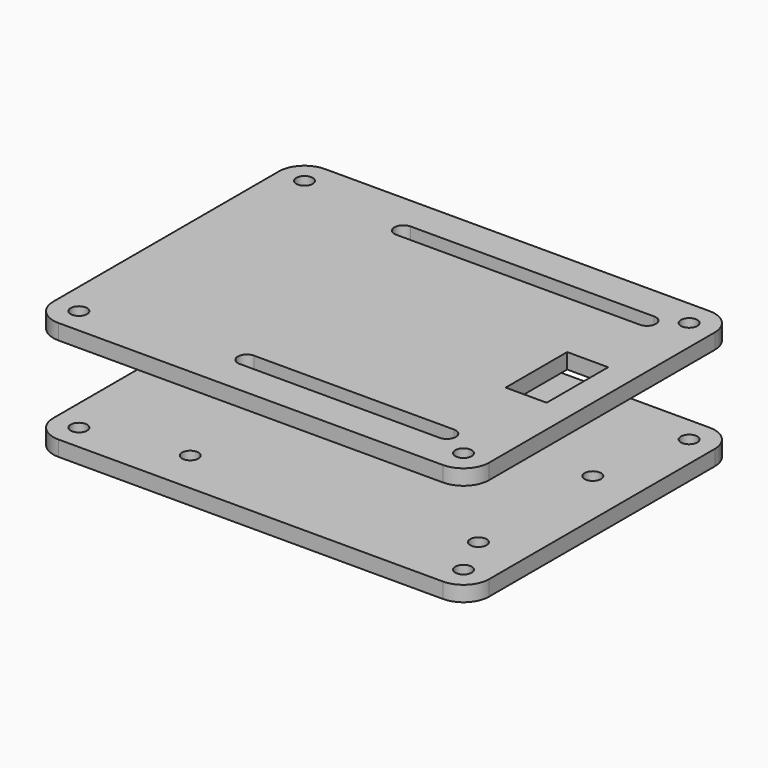
from build123d import *

# Parameters (mm, degrees)
SKETCH_R     = 1.6
PAD_DEPTH    = 3
SKETCH001_R  = 1.6
SKETCH001_W  = 8
SKETCH001_H  = 15
PAD001_DEPTH = 3


with BuildPart() as bottom:
    # Sketch → Pad (new body)
    with BuildSketch(Plane.XY):
        with BuildLine():
            Line((15, 75), (90, 75))
            ThreePointArc((95, 70), (93.535534, 73.535534), (90, 75))
            Line((95, 70), (95, 15))
            ThreePointArc((90, 10), (93.535534, 11.464466), (95, 15))
            Line((90, 10), (15, 10))
            ThreePointArc((10, 15), (11.464466, 11.464466), (15, 10))
            Line((10, 15), (10, 70))
            ThreePointArc((15, 75), (11.464466, 73.535534), (10, 70))
        make_face()
        with Locations((15, 70)):
            Circle(SKETCH_R, mode=Mode.SUBTRACT)
        with Locations((90, 70)):
            Circle(SKETCH_R, mode=Mode.SUBTRACT)
        with Locations((15, 15)):
            Circle(SKETCH_R, mode=Mode.SUBTRACT)
        with Locations((90, 15)):
            Circle(SKETCH_R, mode=Mode.SUBTRACT)
        with Locations((35.3, 66.6)):
            Circle(SKETCH_R, mode=Mode.SUBTRACT)
        with Locations((34, 18.4)):
            Circle(SKETCH_R, mode=Mode.SUBTRACT)
        with Locations((86.1, 23.5)):
            Circle(SKETCH_R, mode=Mode.SUBTRACT)
        with Locations((86.1, 51.4)):
            Circle(SKETCH_R, mode=Mode.SUBTRACT)
    extrude(amount=PAD_DEPTH)


with BuildPart() as top:
    # Sketch001 → Pad001 (new body)
    with BuildSketch(Plane.XY.offset(20)):
        with BuildLine():
            Line((15, 75), (90, 75))
            ThreePointArc((95, 70), (93.535534, 73.535534), (90, 75))
            Line((95, 70), (95, 15))
            ThreePointArc((90, 10), (93.535534, 11.464466), (95, 15))
            Line((90, 10), (15, 10))
            ThreePointArc((10, 15), (11.464466, 11.464466), (15, 10))
            Line((10, 15), (10, 70))
            ThreePointArc((15, 75), (11.464466, 73.535534), (10, 70))
        make_face()
        with Locations((15, 70)):
            Circle(SKETCH001_R, mode=Mode.SUBTRACT)
        with Locations((90, 70)):
            Circle(SKETCH001_R, mode=Mode.SUBTRACT)
        with Locations((15, 15)):
            Circle(SKETCH001_R, mode=Mode.SUBTRACT)
        with Locations((90, 15)):
            Circle(SKETCH001_R, mode=Mode.SUBTRACT)
        with BuildLine():
            Line((45, 20.190004), (84, 20.190004))
            ThreePointArc((84, 16.690004), (85.75, 18.440004), (84, 20.190004))
            Line((45, 16.690004), (84, 16.690004))
            ThreePointArc((45, 20.190004), (43.25, 18.440004), (45, 16.690004))
        make_face(mode=Mode.SUBTRACT)
        with BuildLine():
            Line((37, 68.35), (84.5, 68.35))
            ThreePointArc((84.5, 64.85), (86.25, 66.6), (84.5, 68.35))
            Line((37, 64.85), (84.5, 64.85))
            ThreePointArc((37, 68.35), (35.25, 66.6), (37, 64.85))
        make_face(mode=Mode.SUBTRACT)
        with Locations((85.5, 43.4)):
            Rectangle(SKETCH001_W, SKETCH001_H, mode=Mode.SUBTRACT)
    extrude(amount=PAD001_DEPTH)


solid = Compound([bottom.part, top.part])
